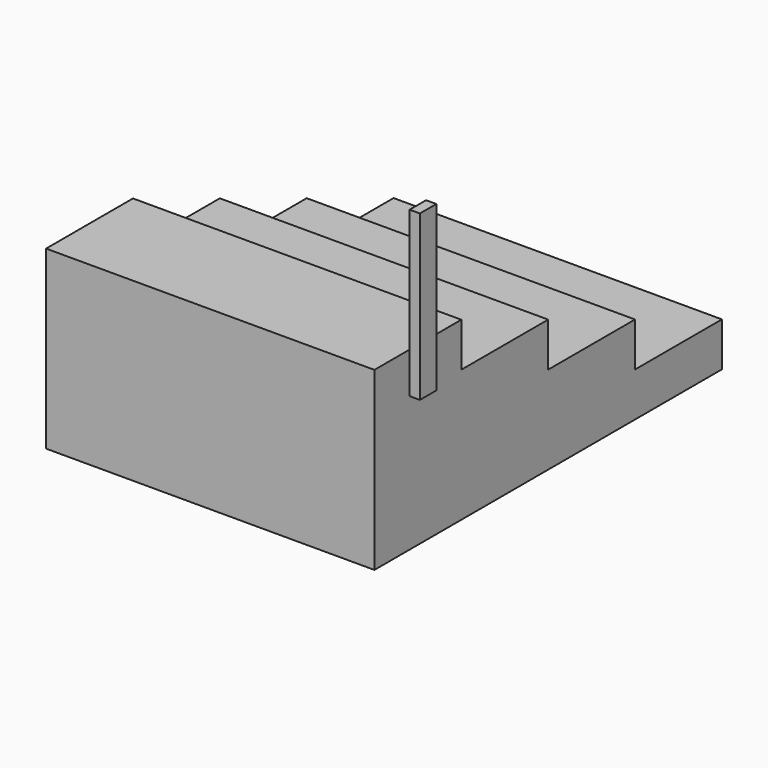
from build123d import *

# Parameters (mm, degrees)
F1_DEPTH = 1219.2
F2_W     = 76.2
F2_H     = 609.6
F3_DEPTH = 38.1


with BuildPart() as f1:
    # F0 (on Right) → F1 (new body)
    with BuildSketch(Plane.YZ):
        Polygon((-806.45, 327.025), (-806.45, -327.025), (806.45, -327.025), (806.45, -163.5125), (403.225, -163.5125), (403.225, 0), (0, 0), (0, 163.5125), (-403.225, 163.5125), (-403.225, 327.025), align=None)
    extrude(amount=-F1_DEPTH)

    # F2 (on face) → F3 (join)
    with BuildSketch(Plane.YZ):
        with Locations((-604.8375, 479.425)):
            Rectangle(F2_W, F2_H)
    extrude(amount=F3_DEPTH)


solid = f1.part
